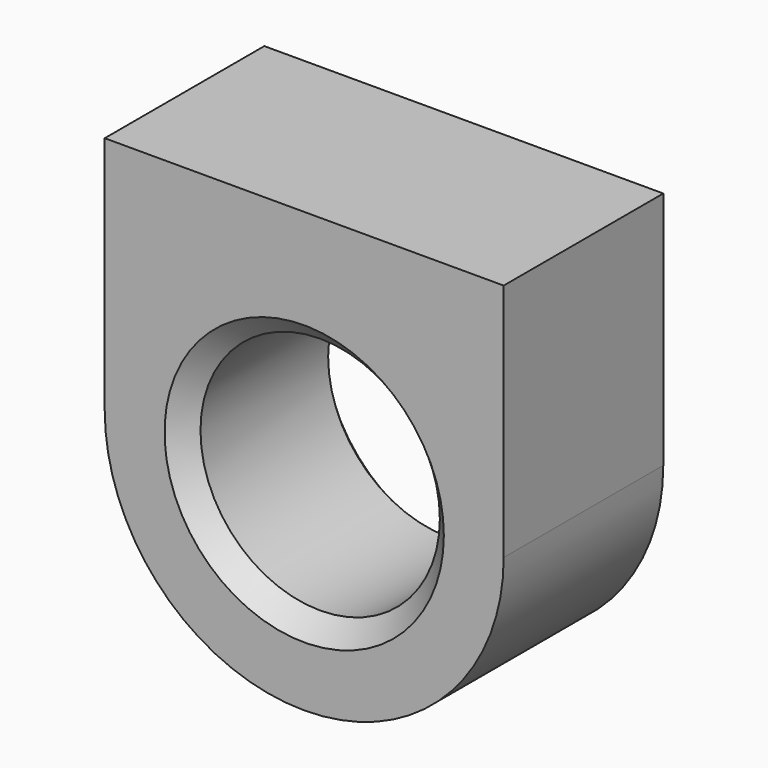
from build123d import *

# Parameters (mm, degrees)
F0_R     = 15.24
F1_DEPTH = 25.4
F2_SIZE  = 2.54


with BuildPart() as f1:
    # F0 (on Front) → F1 (new body)
    with BuildSketch(Plane.XZ):
        with BuildLine():
            Line((26.08552, 1.743119), (-24.71448, 1.743119))
            Line((-24.71448, 1.743119), (-24.71448, -28.736881))
            ThreePointArc((-24.71448, -28.736881), (0.68552, -54.136881), (26.08552, -28.736881))
            Line((26.08552, -28.736881), (26.08552, 1.743119))
        make_face()
        with Locations((0.68552, -28.736881)):
            Circle(F0_R, mode=Mode.SUBTRACT)
    extrude(amount=F1_DEPTH)

    # F2
    f2_edges = [f1.edges().sort_by_distance(p)[0] for p in [
        (-14.55448, -25.4, -28.736881),
        (-14.55448, 0, -28.736881),
    ]]
    chamfer(f2_edges, length=F2_SIZE)


solid = f1.part
